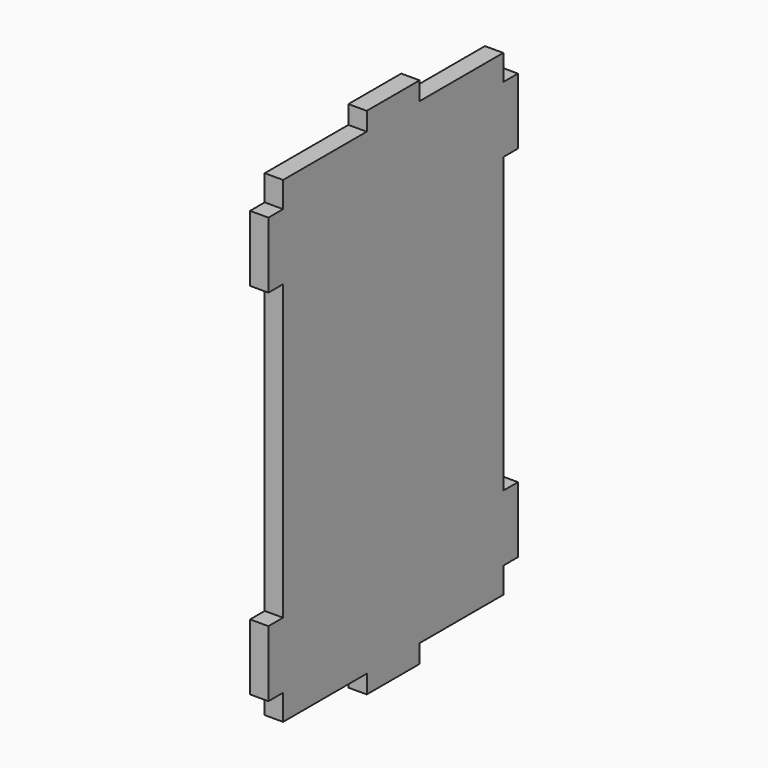
from build123d import *

# Parameters (mm, degrees)
F1_DEPTH = 5


with BuildPart() as f1:
    # F0 (on Right) → F1 (new body)
    with BuildSketch(Plane.YZ):
        Polygon((37.5, 58), (37.5, 65), (9, 65), (9, 70), (-9, 70), (-9, 65), (-37.5, 65), (-37.5, 58), (-42.5, 58), (-42.5, 40), (-37.5, 40), (-37.5, -40), (-42.5, -40), (-42.5, -58), (-37.5, -58), (-37.5, -65), (-9, -65), (-9, -70), (9, -70), (9, -65), (37.5, -65), (37.5, -58), (42.5, -58), (42.5, -40), (37.5, -40), (37.5, 40), (42.5, 40), (42.5, 58), align=None)
    extrude(amount=F1_DEPTH)


solid = f1.part
